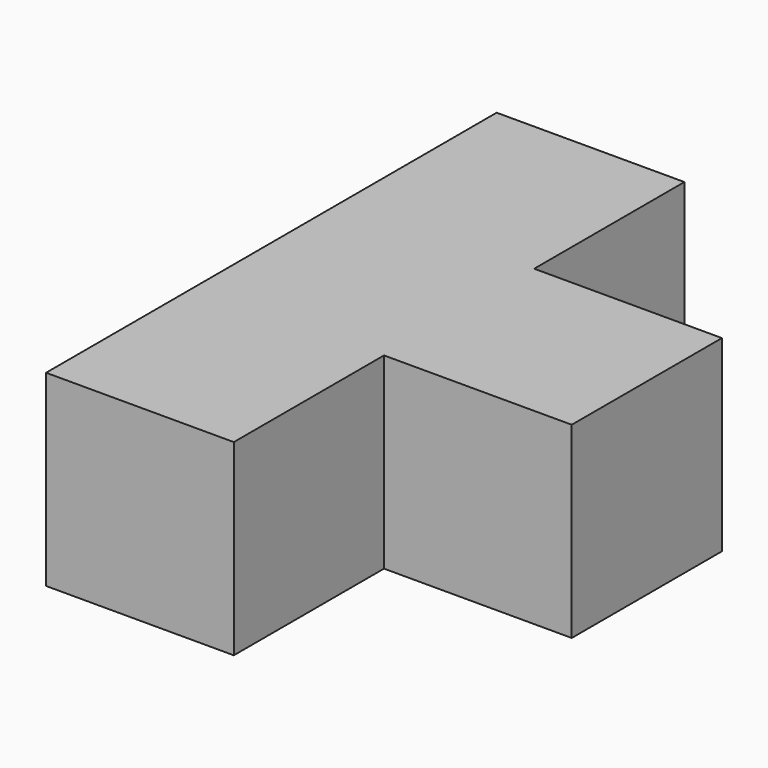
from build123d import *

# Parameters (mm, degrees)
F0_W     = 25.4
F0_H     = 76.2
F1_DEPTH = 25.4
F2_W     = 12.7
F2_H     = 25.4
F3_DEPTH = 25.4


with BuildPart() as f1:
    # F0 (on Top) → F1 (new body)
    with BuildSketch(Plane.XY):
        Rectangle(F0_W, F0_H)
    extrude(amount=F1_DEPTH)

    # F2 (on face) → F3 (join)
    with BuildSketch(Plane.YZ.offset(12.7)):
        with Locations((6.35, 12.7)):
            Rectangle(F2_W, F2_H)
        with Locations((-6.35, 12.7)):
            Rectangle(F2_W, F2_H)
    extrude(amount=F3_DEPTH)


solid = f1.part
